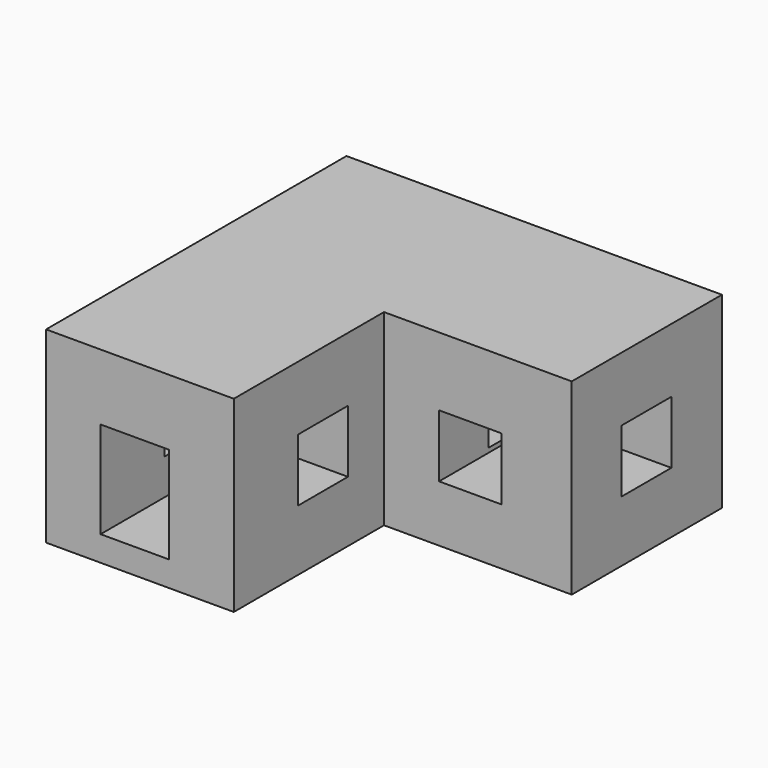
from build123d import *

# Parameters (mm, degrees)
F1_DEPTH  = 30
F2_W      = 10
F2_H      = 10
F3_DEPTH  = 30
F4_W      = 10
F4_H      = 10
F5_DEPTH  = 30
F6_W      = 10
F6_H      = 10
F7_DEPTH  = 60
F8_W      = 10
F8_H      = 10
F9_DEPTH  = 60
F10_W     = 10.937084
F10_H     = 15.436338
F11_DEPTH = 30


with BuildPart() as f1:
    # F0 (on Top) → F1 (new body)
    with BuildSketch(Plane.XY):
        Polygon((30, 30), (0, 30), (-30, 30), (-30, 0), (-30, -30), (0, -30), (0, 0), (30, 0), align=None)
    extrude(amount=F1_DEPTH)

    # F2 (on Front) → F3 (cut)
    with BuildSketch(Plane.XZ):
        with Locations((13.8, 14.042104)):
            Rectangle(F2_W, F2_H)
    extrude(amount=-F3_DEPTH, mode=Mode.SUBTRACT)

    # F4 (on face) → F5 (cut)
    with BuildSketch(Plane.YZ):
        with Locations((-12.199999, 14.75)):
            Rectangle(F4_W, F4_H)
    extrude(amount=-F5_DEPTH, mode=Mode.SUBTRACT)

    # F6 (on face) → F7 (cut)
    with BuildSketch(Plane(origin=(-30, 0, 0), x_dir=(0, -1, 0), z_dir=(-1, 0, 0))):
        with Locations((-14.900001, 14.75)):
            Rectangle(F6_W, F6_H)
    extrude(amount=-F7_DEPTH, mode=Mode.SUBTRACT)

    # F8 (on Front) → F9 (cut)
    with BuildSketch(Plane.XZ):
        with Locations((-16.978183, 14.736477)):
            Rectangle(F8_W, F8_H)
    extrude(amount=-F9_DEPTH, mode=Mode.SUBTRACT)

    # F10 (on face) → F11 (cut)
    with BuildSketch(Plane.XZ.offset(30)):
        with Locations((-15.822794, 11.738348)):
            Rectangle(F10_W, F10_H)
    extrude(amount=-F11_DEPTH, mode=Mode.SUBTRACT)


with BuildPart() as f12_1:
    # F12: copy of F1
    add(f1.part)


solid = f1.part
